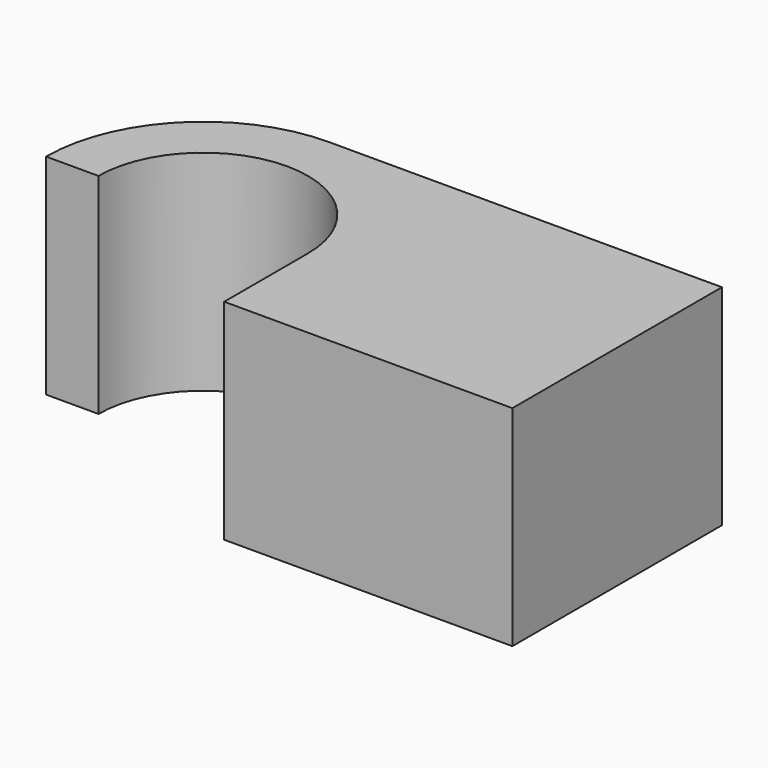
from build123d import *

# Parameters (mm, degrees)
F1_DEPTH = 4


with BuildPart() as f1:
    # F0 (on Top) → F1 (new body, symmetric)
    with BuildSketch(Plane.XY):
        with BuildLine():
            ThreePointArc((-4, 0), (0, 4), (4, 0))
            Line((4, 0), (4, -4))
            Line((4, -4), (15, -4))
            Line((15, -4), (15, 6))
            Line((15, 6), (0, 6))
            ThreePointArc((0, 6), (-4.242641, 4.242641), (-6, 0))
            Line((-6, 0), (-4, 0))
        make_face()
    extrude(amount=F1_DEPTH, both=True)


solid = f1.part
